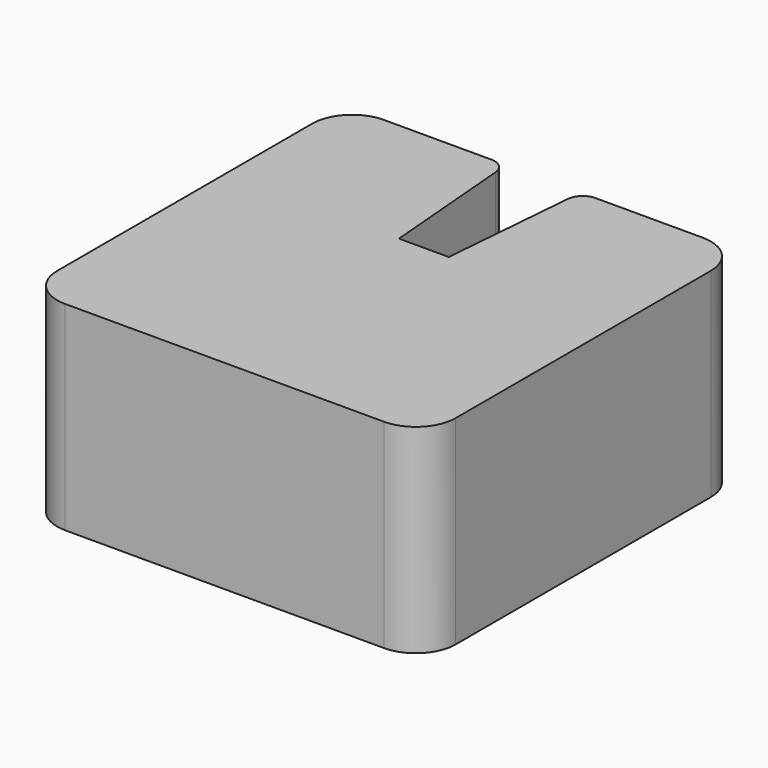
from build123d import *

# Parameters (mm, degrees)
F1_DEPTH = 3.175
F2_R     = 1.27
F3_R     = 0.508


with BuildPart() as f1:
    # F0 (on Top) → F1 (new body, symmetric)
    with BuildSketch(Plane.XY):
        Polygon((-6.35, 16.042595), (-6.35, 3.342595), (6.35, 3.342595), (6.35, 16.042595), (1.190625, 16.042595), (0.79375, 11.280095), (-0.79375, 11.280095), (-1.190625, 16.042595), align=None)
    extrude(amount=F1_DEPTH, both=True)

    # F2
    f2_edges = [f1.edges().sort_by_distance(p)[0] for p in [
        (-6.35, 3.342595, 0),
        (6.35, 3.342595, 0),
        (6.35, 16.042595, 0),
        (-6.35, 16.042595, 0),
    ]]
    fillet(f2_edges, radius=F2_R)

    # F3
    f3_edges = [f1.edges().sort_by_distance(p)[0] for p in [
        (1.190625, 16.042595, 0),
        (-1.190625, 16.042595, 0),
    ]]
    fillet(f3_edges, radius=F3_R)


solid = f1.part
